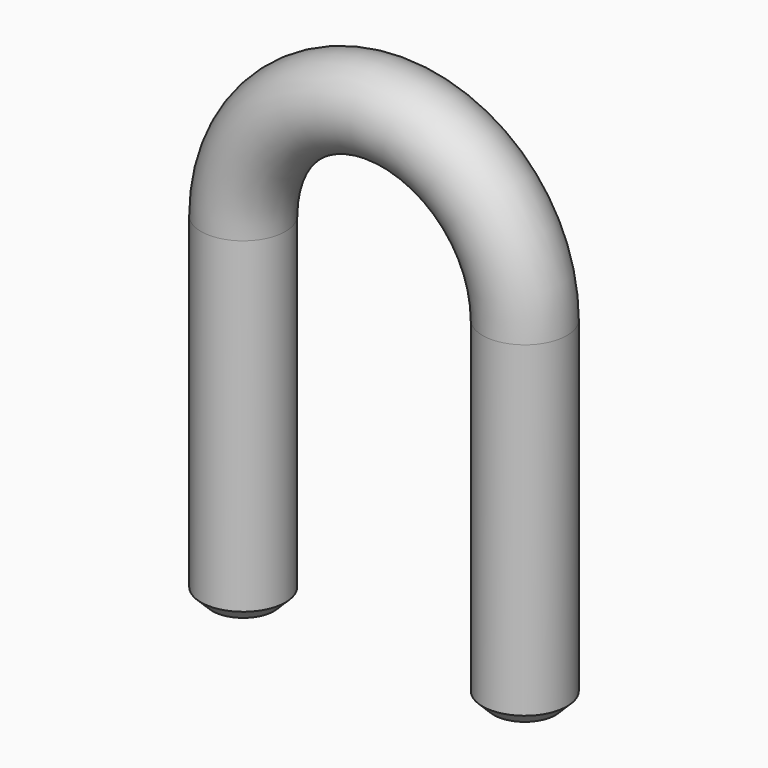
from build123d import *

# Parameters (mm, degrees)
F1_R    = 7.5
F3_SIZE = 2


with BuildPart() as f2:
    # F2: sweep along a path in F0
    with BuildLine(Plane.XZ) as f2_path:
        Line((0, 0), (0, 60))
        ThreePointArc((0, 60), (25, 85), (50, 60))
        Line((50, 60), (50, 0))
    # F1 (on Top) → F2 (sweep)
    with BuildSketch(Plane.XY):
        Circle(F1_R)
    sweep(path=f2_path.line)

    # F3
    f3_edges = [f2.edges().sort_by_distance(p)[0] for p in [
        (-7.5, 0, 0),
        (57.5, 0, 0),
    ]]
    chamfer(f3_edges, length=F3_SIZE)


solid = f2.part
